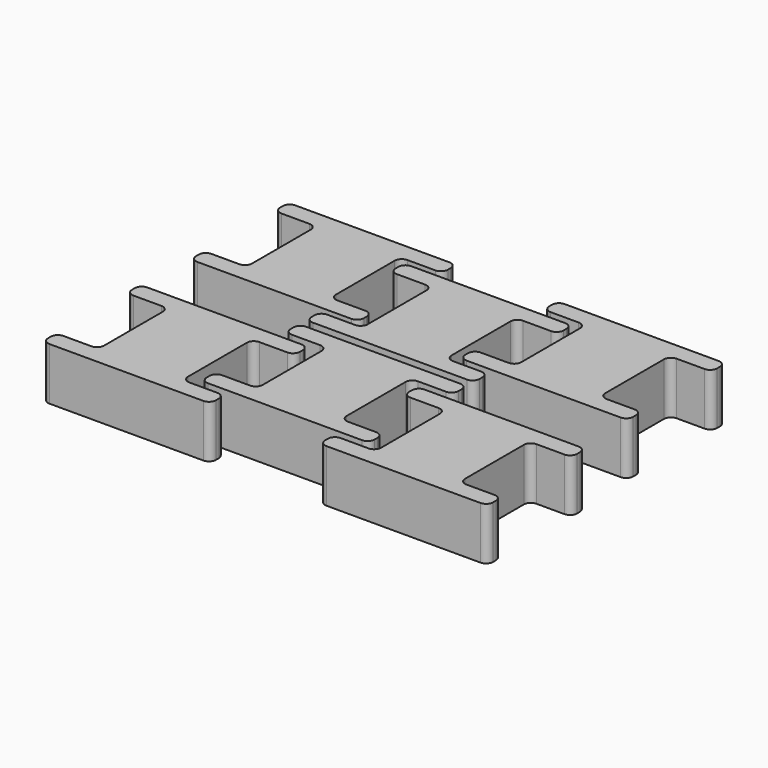
from build123d import *

# Parameters (mm, degrees)
F1_DEPTH = 15


with BuildPart() as f1:
    # F0 (on Top) → F1 (new body)
    with BuildSketch(Plane.XY):
        with BuildLine():
            ThreePointArc((-12, -0.529777), (-11.414214, -1.94399), (-10, -2.529777))
            Line((-10, -2.529777), (-2, -2.529777))
            ThreePointArc((-2, -2.529777), (-0.585786, -3.115563), (0, -4.529777))
            Line((0, -4.529777), (0, -25.529777))
            ThreePointArc((0, -25.529777), (-0.585786, -26.94399), (-2, -27.529777))
            Line((-2, -27.529777), (-10, -27.529777))
            ThreePointArc((-10, -27.529777), (-11.414214, -28.115563), (-12, -29.529777))
            Line((-12, -29.529777), (-12, -30.529777))
            ThreePointArc((-12, -30.529777), (-11.414214, -31.94399), (-10, -32.529777))
            Line((-10, -32.529777), (12, -32.529777))
            Line((12, -32.529777), (12, 2.470223))
            Line((12, 2.470223), (-10, 2.470223))
            ThreePointArc((-10, 2.470223), (-11.414214, 1.884437), (-12, 0.470223))
            Line((-12, 0.470223), (-12, -0.529777))
        make_face()
        with BuildLine():
            Line((34, 2.470223), (12, 2.470223))
            Line((12, 2.470223), (12, -32.529777))
            Line((12, -32.529777), (34, -32.529777))
            ThreePointArc((34, -32.529777), (35.414214, -31.94399), (36, -30.529777))
            Line((36, -30.529777), (36, -29.529777))
            ThreePointArc((36, -29.529777), (35.414214, -28.115563), (34, -27.529777))
            Line((34, -27.529777), (26, -27.529777))
            ThreePointArc((26, -27.529777), (24.585786, -26.94399), (24, -25.529777))
            Line((24, -25.529777), (24, -4.529777))
            ThreePointArc((24, -4.529777), (24.585786, -3.115563), (26, -2.529777))
            Line((26, -2.529777), (34, -2.529777))
            ThreePointArc((34, -2.529777), (35.414214, -1.94399), (36, -0.529777))
            Line((36, -0.529777), (36, 0.470223))
            ThreePointArc((36, 0.470223), (35.414214, 1.884437), (34, 2.470223))
        make_face()
    extrude(amount=F1_DEPTH)


with BuildPart() as f2_1:
    # F2: copy of F1
    add(f1.part.moved(Location((39.6, -7.2, 0))))


with BuildPart() as f3_1:
    # F3: copy of F1
    add(f1.part.moved(Location((-39.5, -7.3, 0))))


with BuildPart() as f4_1:
    # F4: copy of F1
    add(f1.part.moved(Location((0, 37.5, 0))))


with BuildPart() as f5_1:
    # F5: copy of F4_1
    add(f4_1.part.moved(Location((38.2, 7.1, 0))))


with BuildPart() as f6_1:
    # F6: copy of F4_1
    add(f4_1.part.moved(Location((-38.5, 6.8, 0))))


with BuildPart() as f7_1:
    # F7: copy of F6_1
    add(f6_1.part.moved(Location((0, 38.3, 0))))


with BuildPart() as f8_1:
    # F8: copy of F4_1
    add(f4_1.part.moved(Location((0, 52.6, 0))))


with BuildPart() as f9_1:
    # F9: copy of F5_1
    add(f5_1.part.moved(Location((0, 38.5, 0))))


solid = Compound([f1.part, f2_1.part, f3_1.part, f4_1.part, f5_1.part, f6_1.part])
